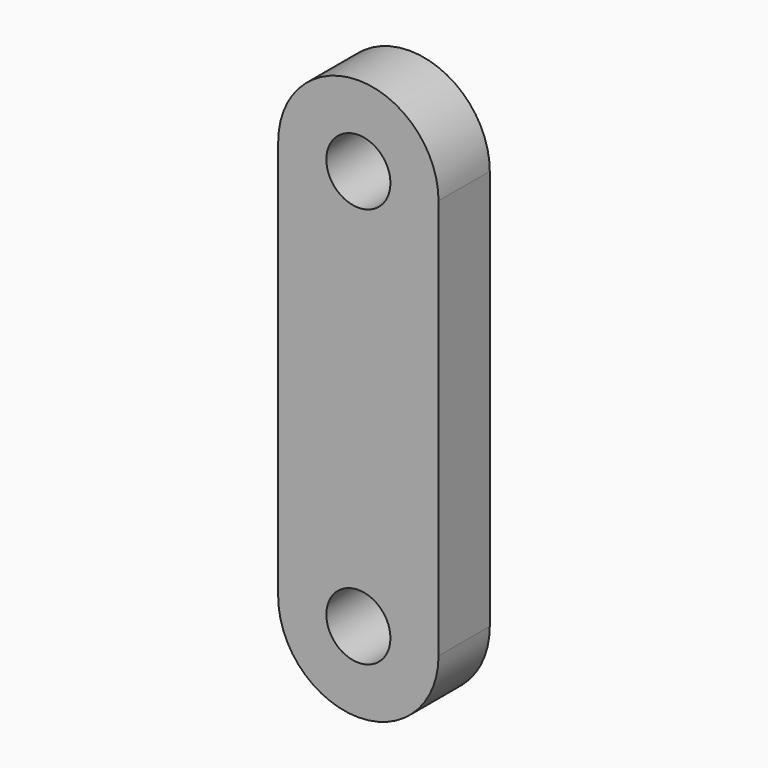
from build123d import *

# Parameters (mm, degrees)
F1_DEPTH = 8


with BuildPart() as f1:
    # F0 (on Front) → F1 (new body)
    with BuildSketch(Plane.XZ):
        with BuildLine():
            Line((0, 50.0126), (-6.0071, 50.0126))
            ThreePointArc((-6.0071, 50.0126), (-10.0076, 46.0121), (-14.0081, 50.0126))
            Line((-14.0081, 50.0126), (-20.0152, 50.0126))
            ThreePointArc((-20.0152, 50.0126), (-10.0076, 40.005), (0, 50.0126))
        make_face()
        with BuildLine():
            ThreePointArc((-14.0081, 50.0126), (-10.0076, 54.0131), (-6.0071, 50.0126))
            Line((-6.0071, 50.0126), (0, 50.0126))
            ThreePointArc((0, 50.0126), (-10.0076, 60.0202), (-20.0152, 50.0126))
            Line((-20.0152, 50.0126), (-14.0081, 50.0126))
        make_face()
        with BuildLine():
            Line((0, 0), (0, 50.0126))
            ThreePointArc((0, 50.0126), (-10.0076, 40.005), (-20.0152, 50.0126))
            Line((-20.0152, 50.0126), (-20.0152, 0))
            ThreePointArc((-20.0152, 0), (-10.0076, 10.0076), (0, 0))
        make_face()
        with BuildLine():
            ThreePointArc((-20.0152, 0), (-10.0076, -10.0076), (0, 0))
            Line((0, 0), (-6.0071, 0))
            ThreePointArc((-6.0071, 0), (-10.0076, -4.0005), (-14.0081, 0))
            Line((-14.0081, 0), (-20.0152, 0))
        make_face()
        with BuildLine():
            Line((-6.0071, 0), (0, 0))
            ThreePointArc((0, 0), (-10.0076, 10.0076), (-20.0152, 0))
            Line((-20.0152, 0), (-14.0081, 0))
            ThreePointArc((-14.0081, 0), (-10.0076, 4.0005), (-6.0071, 0))
        make_face()
    extrude(amount=F1_DEPTH)


solid = f1.part
